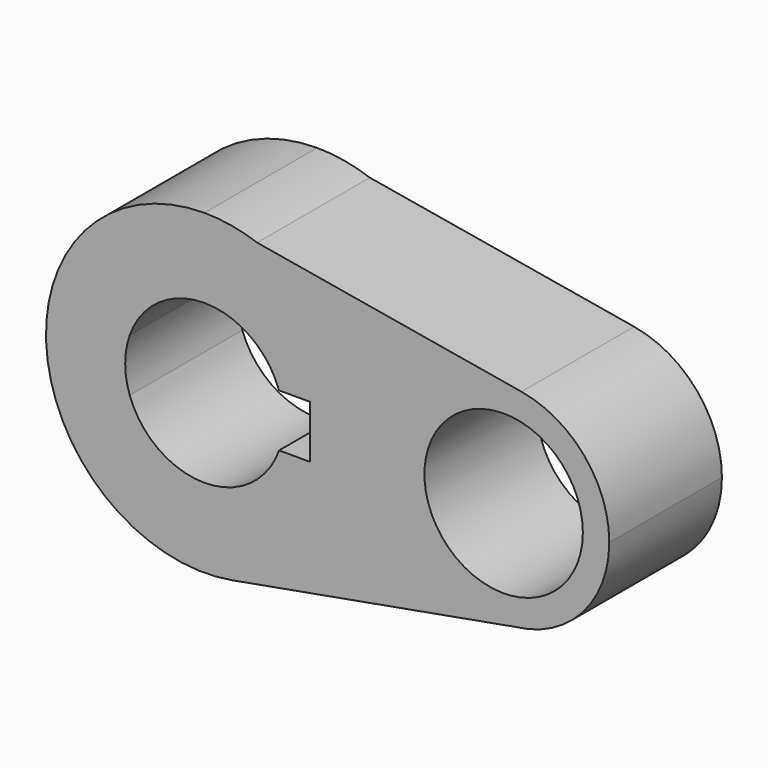
from build123d import *

# Parameters (mm, degrees)
F0_R     = 14.2875
F1_DEPTH = 25.4


with BuildPart() as f1:
    # F0 (on Front) → F1 (new body)
    with BuildSketch(Plane.XZ):
        with BuildLine():
            Line((9.512184, 26.945296), (0, 28.575))
            ThreePointArc((0, 28.575), (-28.461616, -2.543041), (5.0659, -28.122363))
            ThreePointArc((5.0659, -28.122363), (21.923603, -18.3272), (28.575, 0))
            ThreePointArc((28.575, 0), (23.327466, 16.503332), (9.512184, 26.945296))
        make_face()
        with BuildLine():
            ThreePointArc((-13.470384, 4.7625), (0, 14.2875), (13.470384, 4.7625))
            Line((13.470384, 4.7625), (19.05, 4.7625))
            Line((19.05, 4.7625), (19.05, -4.7625))
            Line((19.05, -4.7625), (13.470384, -4.7625))
            ThreePointArc((13.470384, -4.7625), (0, -14.2875), (-13.470384, -4.7625))
            Line((-13.470384, -4.7625), (-19.05, -4.7625))
            Line((-19.05, -4.7625), (-19.05, 4.7625))
            Line((-19.05, 4.7625), (-13.470384, 4.7625))
        make_face(mode=Mode.SUBTRACT)
        with BuildLine():
            ThreePointArc((9.512184, 26.945296), (4.825391, 28.164627), (0, 28.575))
            Line((0, 28.575), (9.512184, 26.945296))
        make_face()
        with BuildLine():
            ThreePointArc((28.575, 0), (21.923603, -18.3272), (5.0659, -28.122363))
            Line((5.0659, -28.122363), (56.072091, -18.934221))
            ThreePointArc((56.072091, -18.934221), (34.933394, 0.56545), (57.191927, 18.776418))
            Line((57.191927, 18.776418), (9.512184, 26.945296))
            ThreePointArc((9.512184, 26.945296), (23.327466, 16.503332), (28.575, 0))
        make_face()
        with BuildLine():
            ThreePointArc((57.191927, 18.776418), (34.933394, 0.56545), (56.072091, -18.934221))
            ThreePointArc((56.072091, -18.934221), (68.167464, -12.707339), (73.025, 0))
            ThreePointArc((73.025, 0), (68.538395, 12.280473), (57.191927, 18.776418))
        make_face()
        with Locations((53.975, 0)):
            Circle(F0_R, mode=Mode.SUBTRACT)
        with BuildLine():
            ThreePointArc((-13.470384, -4.7625), (-14.2875, 0), (-13.470384, 4.7625))
            Line((-13.470384, 4.7625), (-19.05, 4.7625))
            Line((-19.05, 4.7625), (-19.05, -4.7625))
            Line((-19.05, -4.7625), (-13.470384, -4.7625))
        make_face()
    extrude(amount=F1_DEPTH)


solid = f1.part
